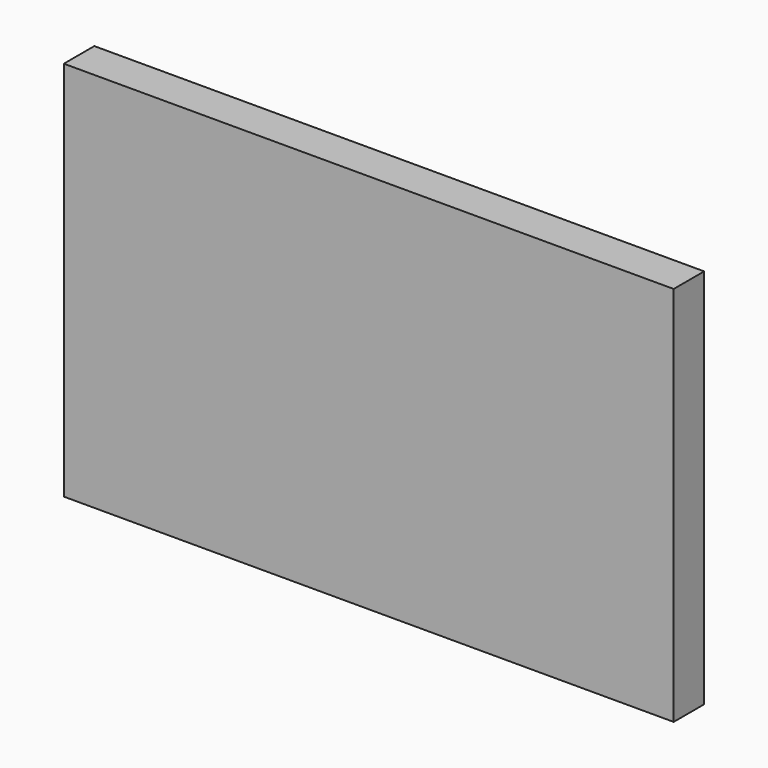
from build123d import *

# Parameters (mm, degrees)
F0_W     = 203.2
F0_H     = 127
F1_DEPTH = 127
F2_T     = -12.7


with BuildPart() as f1:
    # F0 (on Front) → F1 (new body)
    with BuildSketch(Plane.XZ):
        Rectangle(F0_W, F0_H)
    extrude(amount=-F1_DEPTH)

    # F2
    f2_openings = [f1.faces().sort_by_distance(p)[0] for p in [
        (0, 63.5, 63.5),
        (0, 0, 0),
        (101.6, 63.5, 0),
        (-101.6, 63.5, 0),
        (0, 63.5, -63.5),
    ]]
    offset(amount=F2_T, openings=f2_openings)


solid = f1.part
